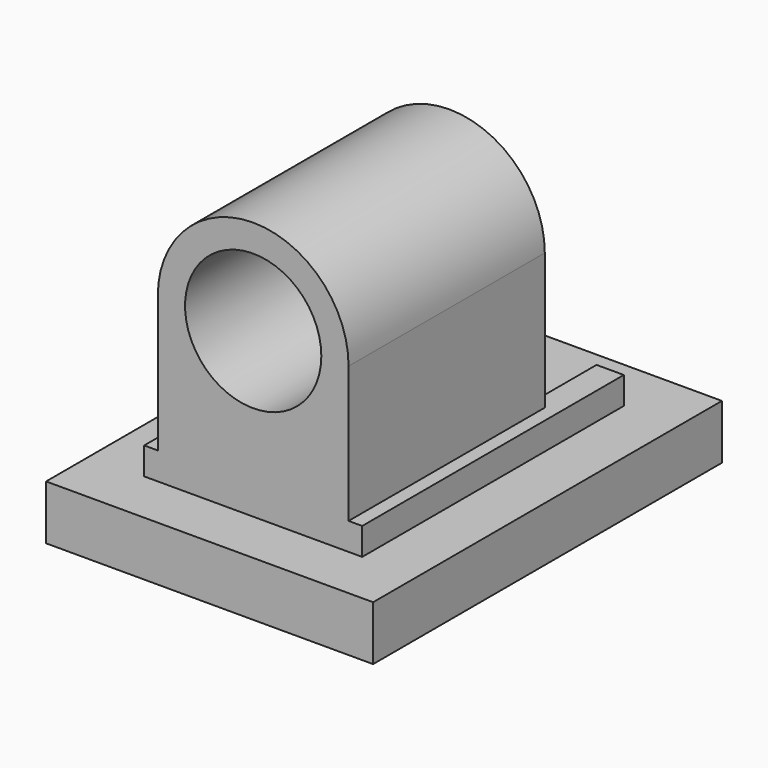
from build123d import *

# Parameters (mm, degrees)
SKETCH_W          = 12
SKETCH_H          = 16
PAD_DEPTH         = 2
SKETCH001_R       = 2.5
PAD001_DEPTH      = 6
PAD001_DEPTH_BACK = 3
SKETCH002_R       = 2.95
POCKET_DEPTH      = 1
SKETCH003_W       = 1
SKETCH003_H       = 12
PAD002_DEPTH      = 1


with BuildPart() as part:
    # Sketch → Pad (new body)
    with BuildSketch(Plane.XY):
        Rectangle(SKETCH_W, SKETCH_H)
    extrude(amount=PAD_DEPTH)

    # Sketch001 → Pad001 (join, two sides)
    with BuildSketch(Plane.XZ) as pad001_sk:
        with BuildLine():
            Line((-3.5, 2), (-3.5, 8))
            ThreePointArc((3.5, 8), (0, 11.5), (-3.5, 8))
            Line((3.5, 8), (3.5, 2))
            Line((-3.5, 2), (3.5, 2))
        make_face()
        with Locations((0, 8)):
            Circle(SKETCH001_R, mode=Mode.SUBTRACT)
    extrude(amount=PAD001_DEPTH)
    extrude(pad001_sk.sketch, amount=-PAD001_DEPTH_BACK)

    # Sketch002 (on Face7 of Pad001) → Pocket (cut)
    with BuildSketch(Plane(origin=(0, 3, 0), x_dir=(-1, 0, 0), z_dir=(0, 1, 0))):
        with Locations((0, 8)):
            Circle(SKETCH002_R)
    extrude(amount=-POCKET_DEPTH, mode=Mode.SUBTRACT)

    # Sketch003 (on Face5 of Pocket) → Pad002 (join)
    with BuildSketch(Plane.XY.offset(2)):
        with Locations((-3.5, 0)):
            Rectangle(SKETCH003_W, SKETCH003_H)
        with Locations((3.5, 0)):
            Rectangle(SKETCH003_W, SKETCH003_H)
    extrude(amount=PAD002_DEPTH)


solid = part.part
